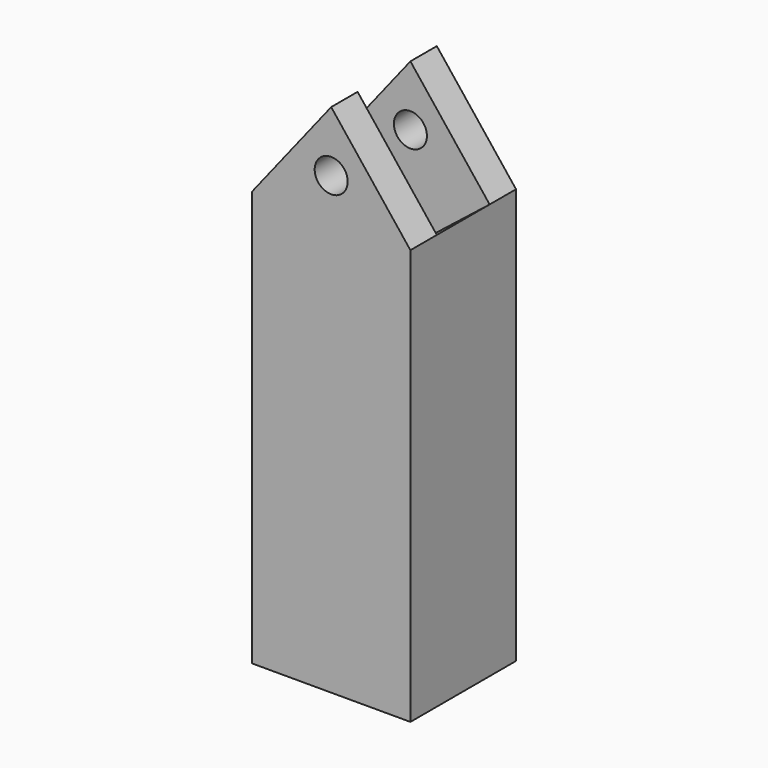
from build123d import *

# Parameters (mm, degrees)
F0_R     = 3.175
F1_DEPTH = 25.4
F2_W     = 12.7
F2_H     = 24.5806615153
F3_DEPTH = 25.4


with BuildPart() as f1:
    # F0 (on Front) → F1 (new body)
    with BuildSketch(Plane.XZ):
        Polygon((-20.1742626747, 33.7985328736), (-35.4142626747, 53.0845723978), (-50.6542626747, 33.7985328736), (-50.6542626747, -46.0891589454), (-20.1742626747, -46.0891589454), align=None)
        with Locations((-35.4142626747, 41.4804334976)):
            Circle(F0_R, mode=Mode.SUBTRACT)
    extrude(amount=F1_DEPTH)

    # F2 (on face) → F3 (cut)
    with BuildSketch(Plane(origin=(4.0221113088, 0, 3.1783081368), x_dir=(0, 1, 0), z_dir=(0.7846021358, 0, 0.6199995875))):
        with Locations((-12.7, 51.3167663736)):
            Rectangle(F2_W, F2_H)
    extrude(amount=-F3_DEPTH, mode=Mode.SUBTRACT)


solid = f1.part
